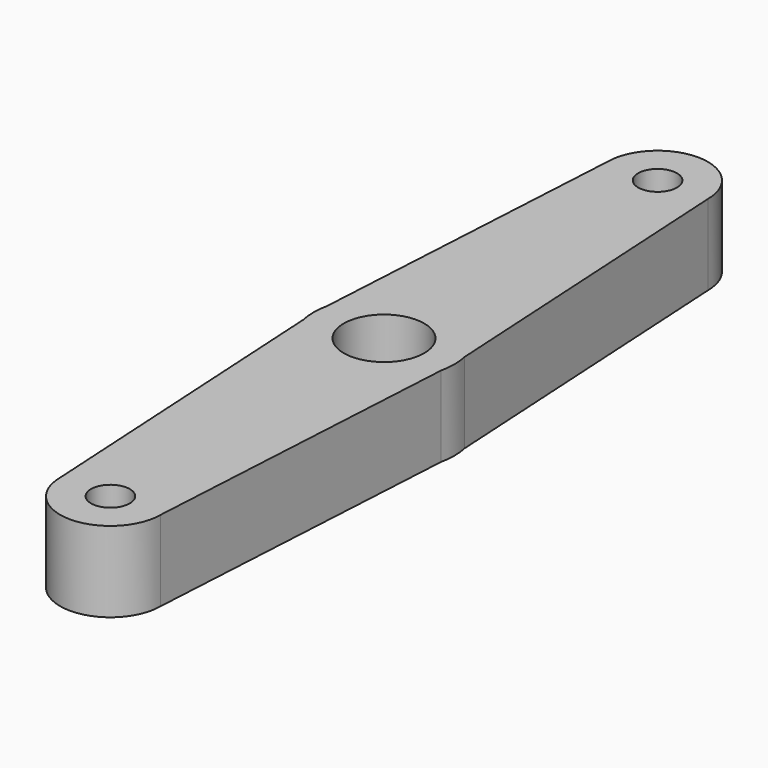
from build123d import *

# Parameters (mm, degrees)
SKETCH001_R   = 2
SKETCH001_R_2 = 0.965047
PAD_DEPTH     = 4


with BuildPart() as part:
    # Sketch001 → Pad (new body)
    with BuildSketch(Plane.XY):
        with BuildLine():
            ThreePointArc((-3.420895, 0.739919), (-3.5, 0), (-3.420895, -0.739919))
            Line((-2.5, -17), (-3.420895, -0.739919))
            ThreePointArc((-2.5, -17), (0, -19.5), (2.5, -17))
            Line((2.5, -17), (3.420895, -0.739919))
            ThreePointArc((3.420895, -0.739919), (3.5, 0), (3.420895, 0.739919))
            Line((3.420895, 0.739919), (2.5, 17))
            ThreePointArc((2.5, 17), (0, 19.5), (-2.5, 17))
            Line((-3.420895, 0.739919), (-2.5, 17))
        make_face()
        Circle(SKETCH001_R, mode=Mode.SUBTRACT)
        with Locations((0, 17)):
            Circle(SKETCH001_R_2, mode=Mode.SUBTRACT)
        with Locations((0, -17)):
            Circle(SKETCH001_R_2, mode=Mode.SUBTRACT)
    extrude(amount=PAD_DEPTH)


solid = part.part
